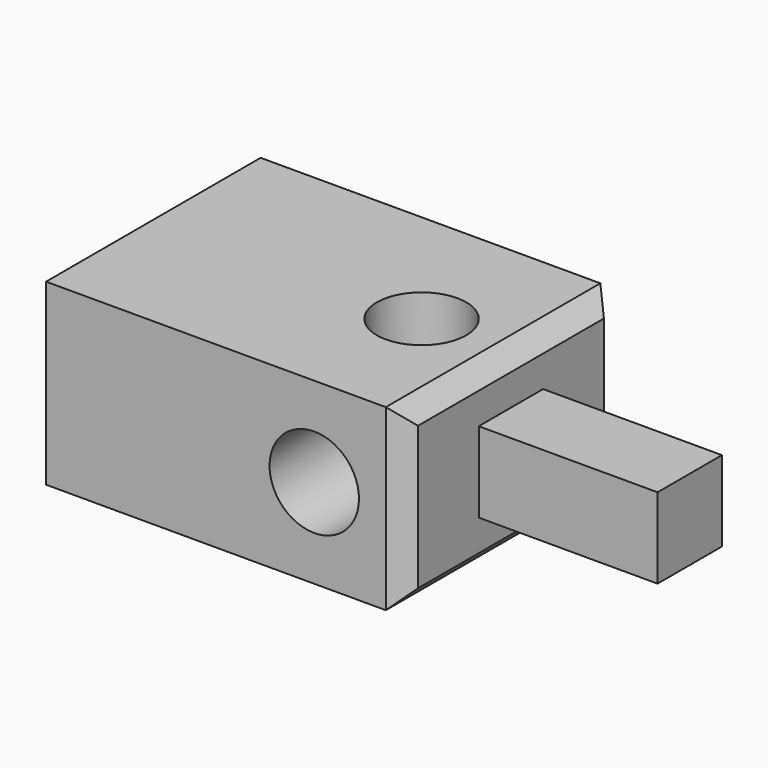
from build123d import *

# Parameters (mm, degrees)
F0_W     = 101.6
F0_H     = 76.2
F1_DEPTH = 50.8
F4_D     = 25.4
F5_D     = 25.4
F6_W     = 22.86
F6_H     = 22.86
F7_DEPTH = 50.8
F8_SIZE  = 5.08


with BuildPart() as f1:
    # F0 (on Top) → F1 (new body)
    with BuildSketch(Plane.XY):
        Rectangle(F0_W, F0_H)
    extrude(amount=F1_DEPTH)

    # F4 (through all)
    with Locations(Plane(origin=(0, 38.1, 0), x_dir=(-1, 0, 0), z_dir=(0, 1, 0))):
        with Locations((-25.4, 25.4)):
            Hole(F4_D / 2)

    # F5 (through all)
    with Locations(Plane.XY.offset(50.8)):
        with Locations((25.4, 0)):
            Hole(F5_D / 2)

    # F6 (on face) → F7 (join)
    with BuildSketch(Plane.YZ.offset(50.8)):
        with Locations((0, 25.4)):
            Rectangle(F6_W, F6_H)
    extrude(amount=F7_DEPTH)

    # F8
    f8_edges = [f1.edges().sort_by_distance(p)[0] for p in [
        (50.8, 0, 50.8),
        (50.8, -38.1, 25.4),
        (50.8, 0, 0),
        (50.8, 38.1, 25.4),
    ]]
    chamfer(f8_edges, length=F8_SIZE)


solid = f1.part
